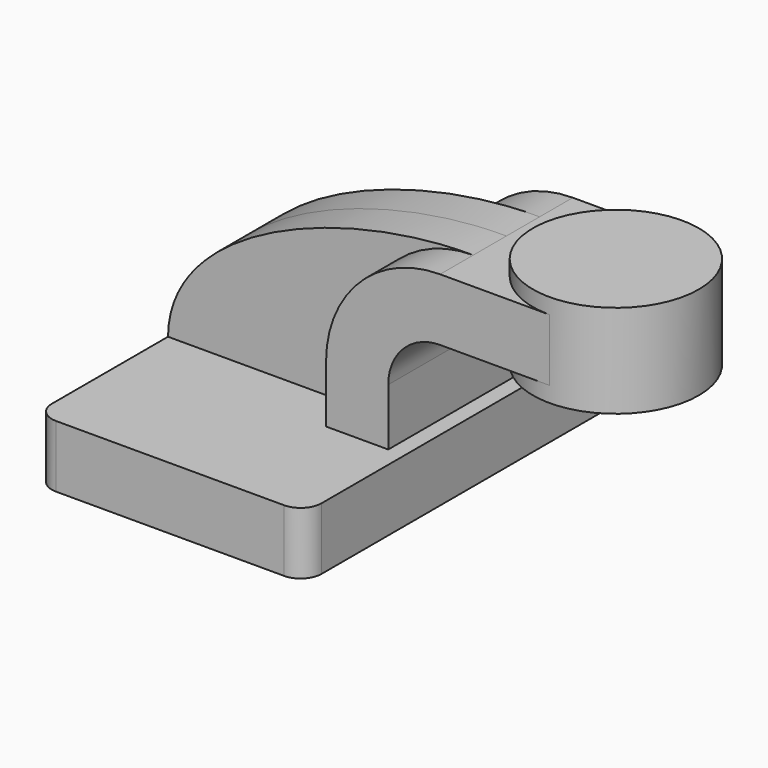
from build123d import *

# Parameters (mm, degrees)
F1_DEPTH = 63.5
F0_W     = 25.4
F0_H     = 19.05
F2_DEPTH = 25.4
F3_DEPTH = 12.7
F5_R     = 6.35


with BuildPart() as f1:
    # F0 (on Front) → F1 (new body, symmetric)
    with BuildSketch(Plane.XZ):
        Polygon((-41.275, -9.525), (41.275, -9.525), (41.275, 9.525), (36.3385356322, 9.525), (17.2885356322, 9.525), (-41.275, 9.525), align=None)
    extrude(amount=F1_DEPTH, both=True)

    # F0 (on Front) → F2 (join, symmetric)
    with BuildSketch(Plane.XZ):
        with BuildLine():
            Line((17.2885356322, 9.525), (36.3385356322, 9.525))
            Line((36.3385356322, 9.525), (36.3385356322, 27.0002))
            ThreePointArc((36.3385356322, 27.0002), (40.9882154809, 38.2255201513), (52.2135356322, 42.8752))
            Line((52.2135356322, 42.8752), (60.325, 42.8752))
            Line((60.325, 42.8752), (60.325, 61.9252))
            Line((60.325, 61.9252), (52.2135356322, 61.9252))
            ThreePointArc((52.2135356322, 61.9252), (27.5178312993, 51.6959043329), (17.2885356322, 27.0002))
            Line((17.2885356322, 27.0002), (17.2885356322, 9.525))
        make_face()
        with Locations((73.025, 52.4002)):
            Rectangle(F0_W, F0_H)
    extrude(amount=F2_DEPTH, both=True)

    # F0 (on Front) → F3 (join, symmetric)
    with BuildSketch(Plane.XZ):
        with BuildLine():
            add(Edge.make_bspline(
                [(-41.275, 9.525), (-40.9712791443, 42.0217514038), (12.5450603664, 62.1972419322), (52.2135356322, 61.9252)],
                knots=[0, 0, 0, 0, 107.1722317333, 107.1722317333, 107.1722317333, 107.1722317333], degree=3))
            Line((-41.275, 9.525), (17.2885356322, 9.525))
            Line((17.2885356322, 9.525), (17.2885356322, 27.0002))
            ThreePointArc((17.2885356322, 27.0002), (27.5178312993, 51.6959043329), (52.2135356322, 61.9252))
        make_face()
    extrude(amount=F3_DEPTH, both=True)

    # F5
    f5_edges = [f1.edges().sort_by_distance(p)[0] for p in [
        (41.275, -63.5, 0),
        (-41.275, -63.5, 0),
        (41.275, 63.5, 0),
        (-41.275, 63.5, 0),
    ]]
    fillet(f5_edges, radius=F5_R)


with BuildPart() as f4:
    # F0 (on Front) → F4 (revolve)
    with BuildSketch(Plane.XZ):
        Polygon((85.725, 66.675), (85.725, 61.9252), (85.725, 42.8752), (85.725, 38.1), (111.125, 38.1), (111.125, 66.675), align=None)
    revolve(axis=Axis((85.725, 0, 52.3875), (0, 0, 1)))


solid = Compound([f1.part, f4.part])
